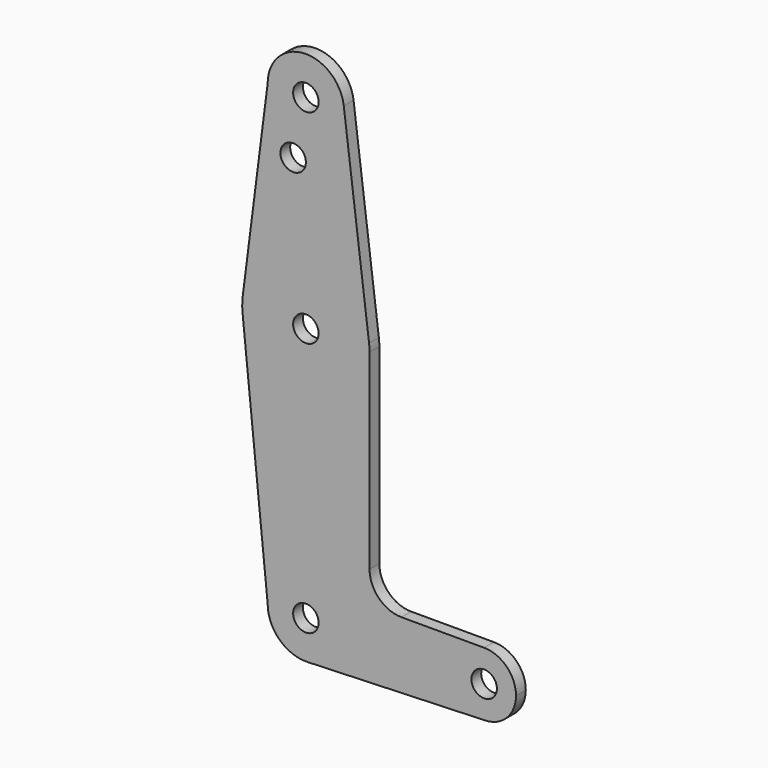
from build123d import *

# Parameters (mm, degrees)
F0_R     = 3.175
F1_DEPTH = 3.048


with BuildPart() as f1:
    # F0 (on Front) → F1 (new body)
    with BuildSketch(Plane.XZ):
        with BuildLine():
            ThreePointArc((15.875, 63.5), (15.843841, 64.494139), (15.750488, 65.484375))
            ThreePointArc((15.750488, 65.484375), (0.012053, 79.374995), (-15.747457, 65.508289))
            ThreePointArc((-15.747457, 65.508289), (-15.873668, 63.705667), (-15.794203, 61.90038))
            ThreePointArc((-15.794203, 61.90038), (0.800829, 47.645212), (15.875, 63.5))
        make_face()
        with Locations((0, 63.5)):
            Circle(F0_R, mode=Mode.SUBTRACT)
        with BuildLine():
            ThreePointArc((-9.525, 114.3), (0, 104.775), (9.525, 114.3))
            ThreePointArc((9.525, 114.3), (9.506305, 114.896483), (9.450293, 115.490625))
            ThreePointArc((9.450293, 115.490625), (-0.596483, 123.806305), (-9.525, 114.3))
        make_face()
        with Locations((0, 114.3)):
            Circle(F0_R, mode=Mode.SUBTRACT)
        with BuildLine():
            ThreePointArc((9.450293, 115.490625), (9.506305, 114.896483), (9.525, 114.3))
            ThreePointArc((9.525, 114.3), (0, 104.775), (-9.525, 114.3))
            Line((-9.525, 114.3), (-15.747457, 65.508289))
            ThreePointArc((-15.747457, 65.508289), (0.012053, 79.374995), (15.750488, 65.484375))
            Line((15.750488, 65.484375), (9.450293, 115.490625))
        make_face()
        with Locations((-3.175, 100.0252)):
            Circle(F0_R, mode=Mode.SUBTRACT)
        with BuildLine():
            ThreePointArc((9.525, 0), (0, 9.525), (-9.525, 0))
            ThreePointArc((-9.525, 0), (-6.613827, -6.854408), (0.340179, -9.518923))
            ThreePointArc((0.340179, -9.518923), (6.854408, -6.613827), (9.525, 0))
        make_face()
        Circle(F0_R, mode=Mode.SUBTRACT)
        with BuildLine():
            Line((36.5125, 0), (9.525, 0))
            ThreePointArc((9.525, 0), (6.854408, -6.613827), (0.340179, -9.518923))
            Line((0.340179, -9.518923), (44.733482, -7.932436))
            ThreePointArc((44.733482, -7.932436), (38.938477, -5.712007), (36.5125, 0))
        make_face()
        with BuildLine():
            ThreePointArc((15.875, 63.5), (15.843841, 64.494139), (15.750488, 65.484375))
            ThreePointArc((15.750488, 65.484375), (0.012053, 79.374995), (-15.747457, 65.508289))
            ThreePointArc((-15.747457, 65.508289), (-15.873668, 63.705667), (-15.794203, 61.90038))
            ThreePointArc((-15.794203, 61.90038), (0.800829, 47.645212), (15.875, 63.5))
        make_face()
        with Locations((0, 63.5)):
            Circle(F0_R, mode=Mode.SUBTRACT)
        with BuildLine():
            Line((15.875, 15.8877), (15.875, 63.5))
            ThreePointArc((15.875, 63.5), (0.800829, 47.645212), (-15.794203, 61.90038))
            Line((-15.794203, 61.90038), (-9.525, 0))
            ThreePointArc((-9.525, 0), (0, 9.525), (9.525, 0))
            Line((9.525, 0), (36.5125, 0))
            ThreePointArc((36.5125, 0), (38.83734, 5.61266), (44.45, 7.9375))
            Line((44.45, 7.9375), (23.8252, 7.9375))
            ThreePointArc((23.8252, 7.9375), (18.20356, 10.26606), (15.875, 15.8877))
        make_face()
        with BuildLine():
            ThreePointArc((52.3875, 0), (50.06266, 5.61266), (44.45, 7.9375))
            ThreePointArc((44.45, 7.9375), (38.83734, 5.61266), (36.5125, 0))
            ThreePointArc((36.5125, 0), (38.938477, -5.712007), (44.733482, -7.932436))
            ThreePointArc((44.733482, -7.932436), (50.162007, -5.511523), (52.3875, 0))
        make_face()
        with BuildLine():
            ThreePointArc((47.625, 0), (44.45, -3.175), (41.275, 0))
            ThreePointArc((41.275, 0), (44.45, 3.175), (47.625, 0))
        make_face(mode=Mode.SUBTRACT)
    extrude(amount=F1_DEPTH)


solid = f1.part
